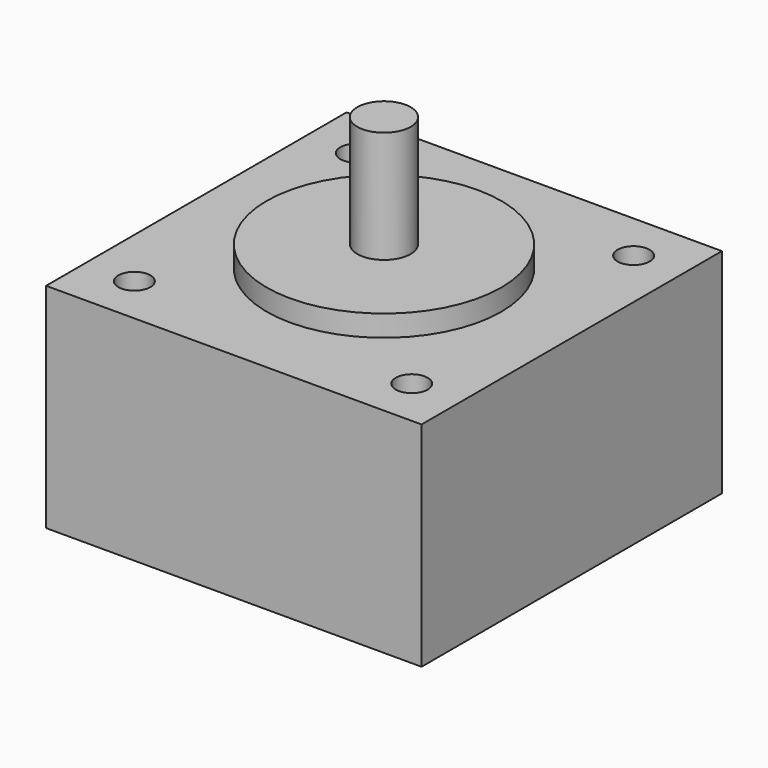
from build123d import *

# Parameters (mm, degrees)
F0_W     = 35.2
F0_H     = 35.2
F1_DEPTH = 20
F2_R     = 11
F3_DEPTH = 2
F4_R     = 2.5
F5_DEPTH = 12.5
F6_R     = 1.5
F7_DEPTH = 6


with BuildPart() as f1:
    # F0 (on Top) → F1 (new body)
    with BuildSketch(Plane.XY):
        Rectangle(F0_W, F0_H)
    extrude(amount=F1_DEPTH)

    # F2 (on face) → F3 (join)
    with BuildSketch(Plane.XY.offset(20)):
        Circle(F2_R)
    extrude(amount=F3_DEPTH)

    # F4 (on face) → F5 (join)
    with BuildSketch(Plane.XY.offset(20)):
        Circle(F4_R)
    extrude(amount=F5_DEPTH)

    # F6 (on face) → F7 (cut)
    with BuildSketch(Plane.XY.offset(20)):
        with Locations((-13, 13)):
            Circle(F6_R)
        with Locations((13, 13)):
            Circle(F6_R)
        with Locations((-13, -13)):
            Circle(F6_R)
        with Locations((13, -13)):
            Circle(F6_R)
    extrude(amount=-F7_DEPTH, mode=Mode.SUBTRACT)


solid = f1.part
